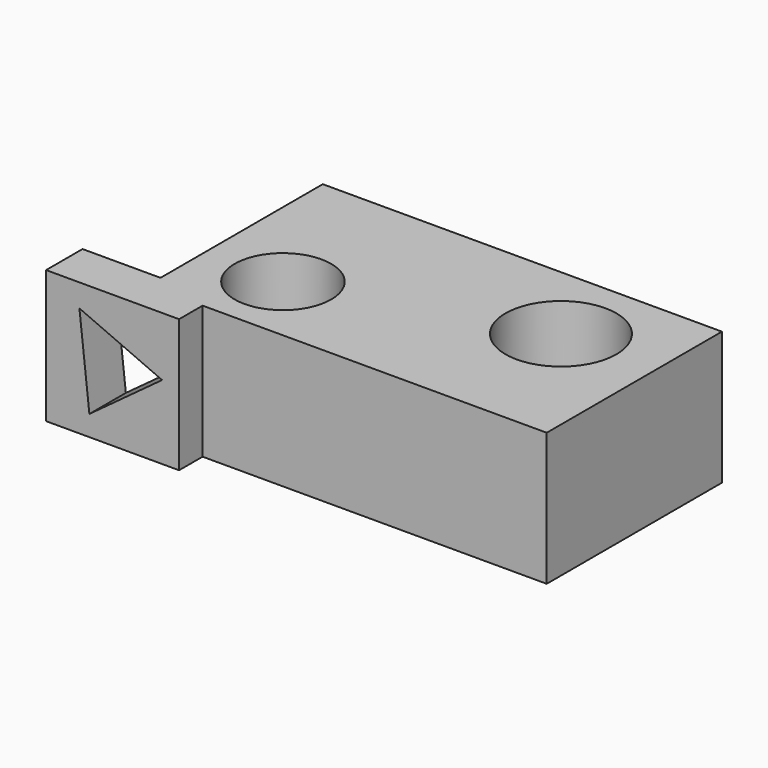
from build123d import *

# Parameters (mm, degrees)
F0_R     = 27.654289
F0_R_2   = 31.789504
F1_DEPTH = 76.2
F3_R     = 22.213723
F4_DEPTH = 25.4
F5_DEPTH = 157.734


with BuildPart() as f1:
    # F0 (on Top) → F1 (new body)
    with BuildSketch(Plane.XY):
        Polygon((117.248647, 64.562328), (-111.418605, 64.562328), (-111.418605, -51.62568), (-156.081602, -51.62568), (-156.081602, -77.738054), (-79.898089, -77.738054), (-79.898089, -60.891561), (117.248647, -60.891561), align=None)
        with Locations((-66.341519, -20.300921)):
            Circle(F0_R, mode=Mode.SUBTRACT)
        with Locations((62.335916, 17.92543)):
            Circle(F0_R_2, mode=Mode.SUBTRACT)
    extrude(amount=F1_DEPTH)

    # F3 (on face) → F4 (cut)
    with BuildSketch(Plane(origin=(0, 64.562328, 0), x_dir=(-1, 0, 0), z_dir=(0, 1, 0))):
        with Locations((-3.41973, 36.301557)):
            Circle(F3_R)
    extrude(amount=-F4_DEPTH, mode=Mode.SUBTRACT)

    # F2 (on face) → F5 (cut)
    with BuildSketch(Plane.XZ.offset(77.738054)):
        Polygon((-131.27912, 11.703248), (-89.60872, 42.351646), (-136.986211, 63.115072), align=None)
    extrude(amount=-F5_DEPTH, mode=Mode.SUBTRACT)


solid = f1.part
